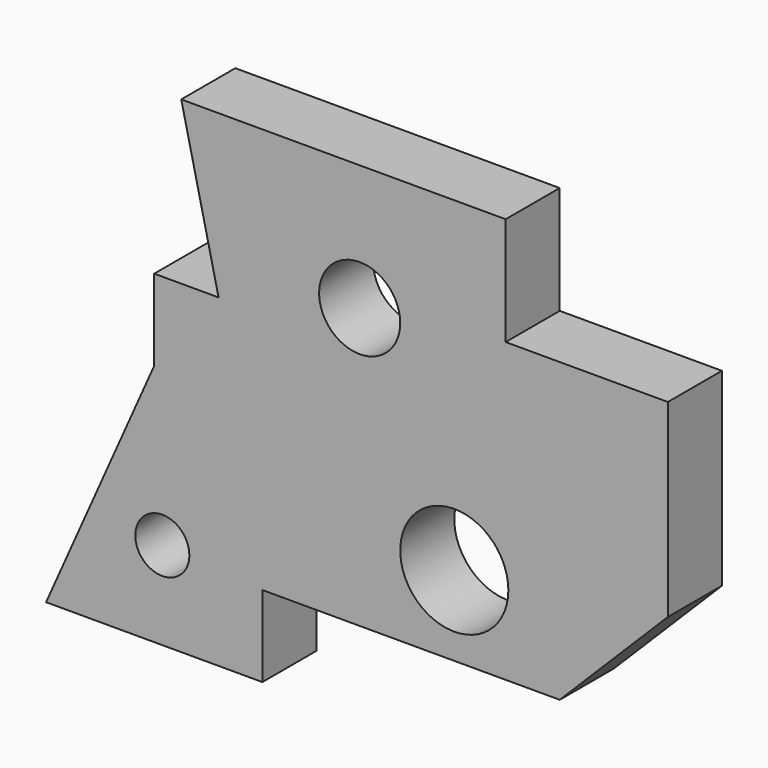
from build123d import *

# Parameters (mm, degrees)
F0_R     = 5.08
F0_R_2   = 10.16
F0_R_3   = 7.62
F1_DEPTH = 12.7


with BuildPart() as f1:
    # F0 (on Front) → F1 (new body)
    with BuildSketch(Plane.XZ):
        Polygon((27.432, 34.10262), (-33.528, 34.10262), (-26.510477, 3.62262), (-38.608, 3.62262), (-38.608, -11.61738), (-58.928, -57.33738), (-18.288, -57.33738), (-18.288, -42.09738), (37.592, -42.09738), (57.912, -21.77738), (57.912, 13.78262), (27.432, 13.78262), align=None)
        with Locations((-37.084, -40.82738)):
            Circle(F0_R, mode=Mode.SUBTRACT)
        with Locations((17.78, -27.11138)):
            Circle(F0_R_2, mode=Mode.SUBTRACT)
        with Locations((0, 10.48062)):
            Circle(F0_R_3, mode=Mode.SUBTRACT)
    extrude(amount=F1_DEPTH)


solid = f1.part
